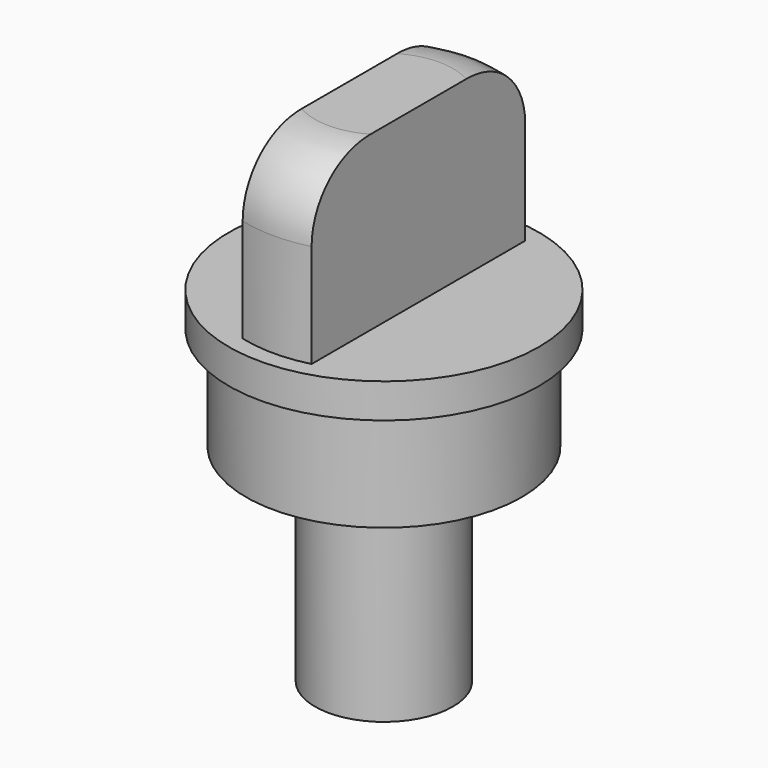
from build123d import *

# Parameters (mm, degrees)
F3_DEPTH = 5
F4_R     = 2


with BuildPart() as f1:
    # F0 (on Front) → F1 (revolve)
    with BuildSketch(Plane.XZ):
        Polygon((0, 15), (0, 0), (2, 0), (2, 6), (4, 6), (4, 9), (4.5, 9), (4.5, 10), (4, 10), (4, 15), align=None)
    revolve(axis=Axis((0, 0, 7.5), (0, 0, -1)))

    # F2 (on face) → F3 (cut, through all)
    with BuildSketch(Plane.XY.offset(15)):
        with BuildLine():
            Line((-1, -3.8729833462), (-1, 3.8729833462))
            ThreePointArc((-1, 3.8729833462), (-4, 0), (-1, -3.8729833462))
        make_face()
        with BuildLine():
            ThreePointArc((4, 0), (3.1622776602, 2.4494897428), (1, 3.8729833462))
            Line((1, 3.8729833462), (1, -3.8729833462))
            ThreePointArc((1, -3.8729833462), (3.1622776602, -2.4494897428), (4, 0))
        make_face()
    extrude(amount=-F3_DEPTH, mode=Mode.SUBTRACT)

    # F4
    f4_edges = [f1.edges().sort_by_distance(p)[0] for p in [
        (0, -4, 15),
        (0, 4, 15),
    ]]
    fillet(f4_edges, radius=F4_R)


solid = f1.part
